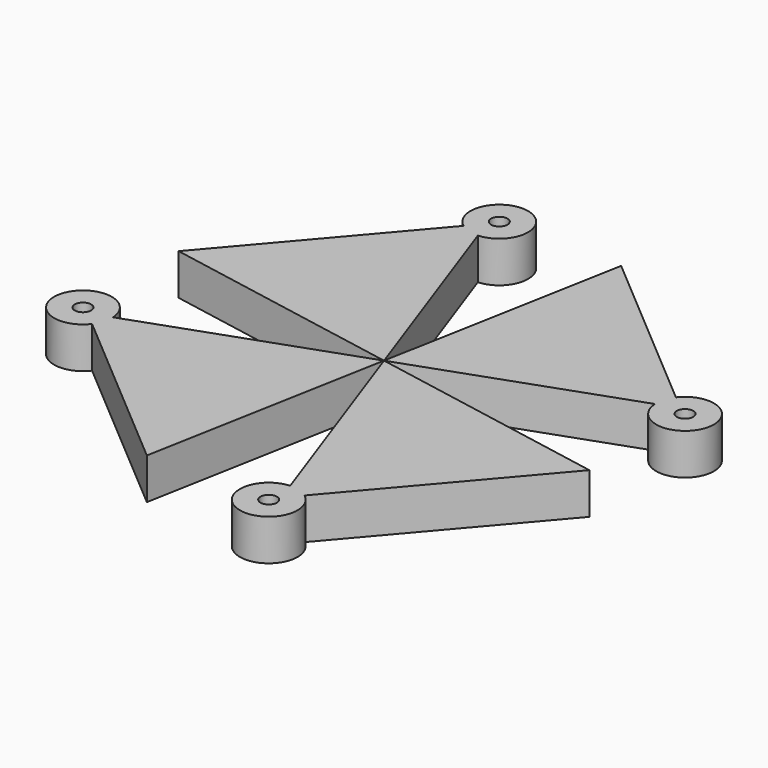
from build123d import *

# Parameters (mm, degrees)
F1_DEPTH = 25
F2_R     = 17.526447
F3_DEPTH = 25
F5_D     = 10
F6_COUNT = 4


with BuildPart() as f1:
    # F0 (on Top) → F1 (new body)
    with BuildSketch(Plane.XY):
        Polygon((-15.595383, -84.55924), (81.028142, 28.773623), (-65.432759, 55.785618), align=None)
    extrude(amount=F1_DEPTH)

    # F2 (on Top) → F3 (join)
    with BuildSketch(Plane.XY):
        with Locations((-18.887194, -90.001926)):
            Circle(F2_R)
    extrude(amount=F3_DEPTH)

    # F5 (through all)
    with Locations(Plane(origin=(0, 0, 0), x_dir=(1, 0, 0), z_dir=(0, 0, -1))):
        with Locations((-18.887194, 90.001926)):
            Hole(F5_D / 2)


with BuildPart() as f6_1:
    # F6: instance of F1
    add(f1.part.rotate(Axis((-65.432759, 55.785618, 12.5), (0, 0, 1)), 1 * 360 / F6_COUNT))


with BuildPart() as f6_2:
    # F6: instance of F1
    add(f1.part.rotate(Axis((-65.432759, 55.785618, 12.5), (0, 0, 1)), 2 * 360 / F6_COUNT))


with BuildPart() as f6_3:
    # F6: instance of F1
    add(f1.part.rotate(Axis((-65.432759, 55.785618, 12.5), (0, 0, 1)), 3 * 360 / F6_COUNT))


solid = Compound([f1.part, f6_1.part, f6_2.part, f6_3.part])
